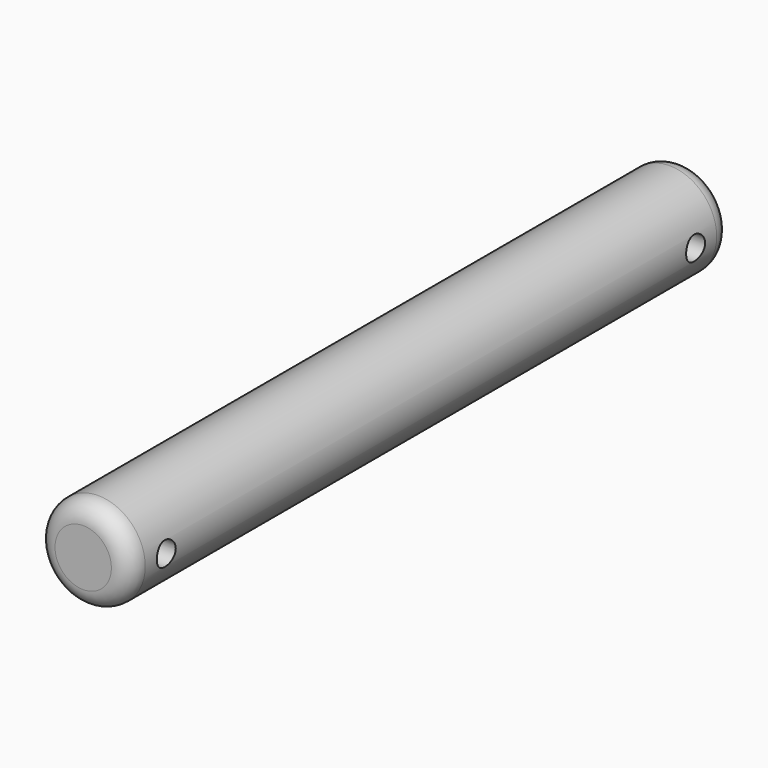
from build123d import *

# Parameters (mm, degrees)
F0_R     = 12.5
F2_DEPTH = 100
F1_R     = 3.15
F3_DEPTH = 200
F4_R     = 5


with BuildPart() as f2:
    # F0 (on Front) → F2 (new body, symmetric)
    with BuildSketch(Plane.XZ):
        Circle(F0_R)
    extrude(amount=F2_DEPTH, both=True)

    # F1 (on Right) → F3 (cut, symmetric)
    with BuildSketch(Plane.YZ):
        with Locations((-88, 0)):
            Circle(F1_R)
        with Locations((88, 0)):
            Circle(F1_R)
    extrude(amount=F3_DEPTH, both=True, mode=Mode.SUBTRACT)

    # F4
    f4_edges = [f2.edges().sort_by_distance(p)[0] for p in [
        (-12.5, -100, 0),
        (-12.5, 100, 0),
    ]]
    fillet(f4_edges, radius=F4_R)


solid = f2.part
